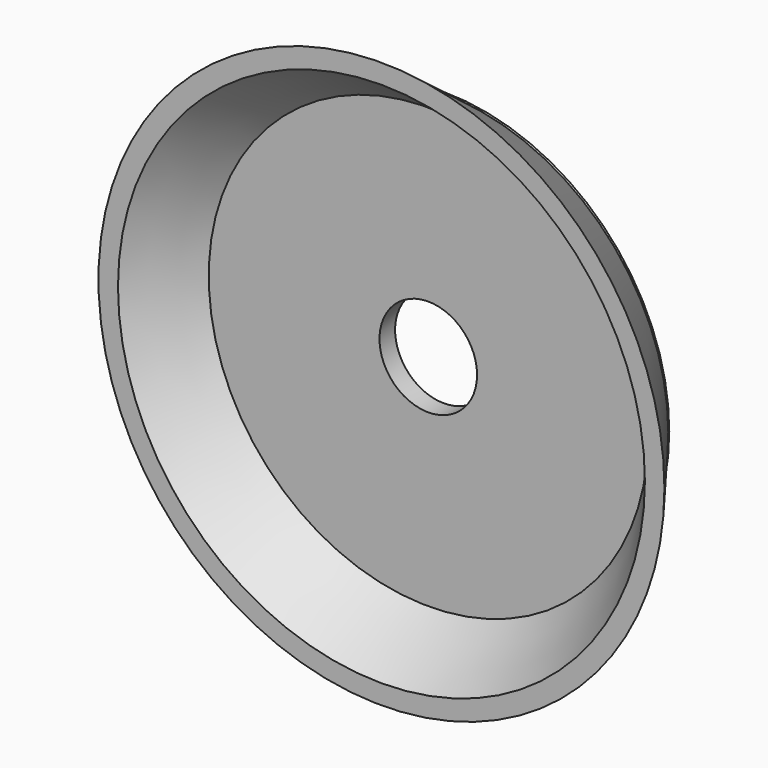
from build123d import *

# Parameters (mm, degrees)
SKETCH_R     = 14.5
SKETCH001_R  = 11.5
SKETCH003_R  = 10.5
SKETCH002_R  = 13.5
SKETCH004_R  = 11.547972
PAD_DEPTH    = 1
SKETCH005_R  = 2.5
POCKET_DEPTH = 5


with BuildPart() as part:
    # Sketch → AdditiveLoft section 0
    with BuildSketch(Plane.XZ):
        Circle(SKETCH_R)
    # Sketch001 (on DatumPlane) → AdditiveLoft section 1
    with BuildSketch(Plane.XZ.offset(-4)):
        with Locations((0, -0.047972)):
            Circle(SKETCH001_R)
    loft()

    # Sketch003 (on Face3 of AdditiveLoft) → SubtractiveLoft section 0
    with BuildSketch(Plane(origin=(0, 4, 0), x_dir=(1, 0, 0), z_dir=(0, 1, 0))):
        Circle(SKETCH003_R)
    # Sketch002 (on Face1 of AdditiveLoft) → SubtractiveLoft section 1
    with BuildSketch(Plane.XZ):
        Circle(SKETCH002_R)
    loft(mode=Mode.SUBTRACT)

    # Sketch004 (on Face4 of SubtractiveLoft) → Pad (new body)
    with BuildSketch(Plane(origin=(0, 4, 0), x_dir=(1, 0, 0), z_dir=(0, 1, 0))):
        Circle(SKETCH004_R)
    extrude(amount=-PAD_DEPTH)

    # Sketch005 (on Face9 of Pad) → Pocket (cut)
    with BuildSketch(Plane(origin=(0, 4, 0), x_dir=(1, 0, 0), z_dir=(0, 1, 0))):
        Circle(SKETCH005_R)
    extrude(amount=-POCKET_DEPTH, mode=Mode.SUBTRACT)


solid = part.part
